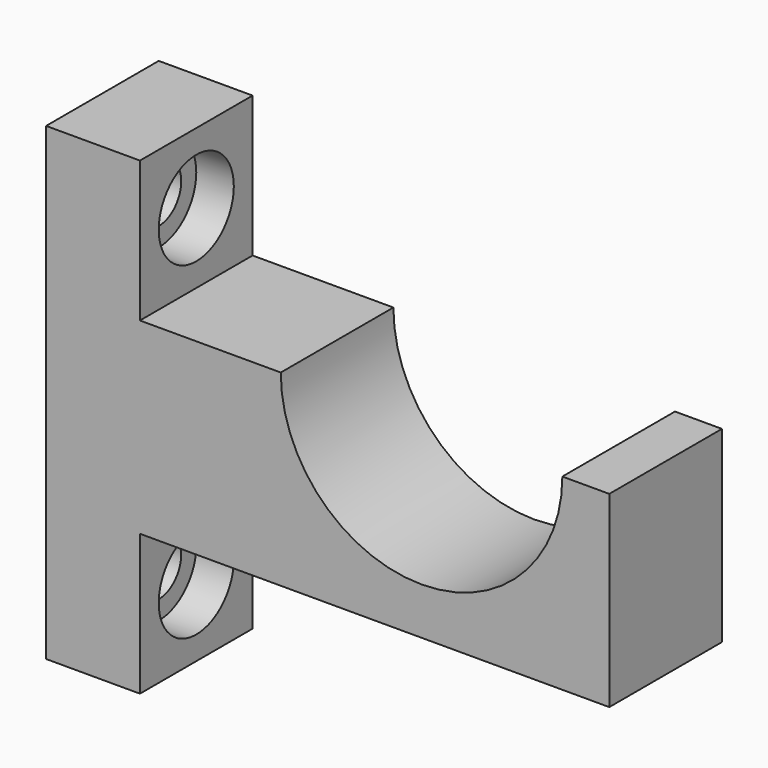
from build123d import *

# Parameters (mm, degrees)
F0_W     = 10
F0_H     = 15
F0_H_2   = 20
F1_DEPTH = 15
F2_R     = 3
F3_DEPTH = 10.001
F4_R     = 5
F4_R_2   = 3
F5_DEPTH = 4
F6_R     = 3
F7_DEPTH = 10.001
F8_R     = 5
F8_R_2   = 3
F9_DEPTH = 4


with BuildPart() as f1:
    # F0 (on Front) → F1 (new body)
    with BuildSketch(Plane.XZ):
        with Locations((-25, 17.5)):
            Rectangle(F0_W, F0_H)
        with Locations((-25, 0)):
            Rectangle(F0_W, F0_H_2)
        with BuildLine():
            Line((-20, -10), (30, -10))
            Line((30, -10), (30, 10))
            Line((30, 10), (25, 10))
            ThreePointArc((25, 10), (10, -5), (-5, 10))
            Line((-5, 10), (-20, 10))
            Line((-20, 10), (-20, -10))
        make_face()
        with Locations((-25, -17.5)):
            Rectangle(F0_W, F0_H)
    extrude(amount=F1_DEPTH)

    # F2 (on face) → F3 (cut, through all)
    with BuildSketch(Plane.YZ.offset(-20)):
        with Locations((-7.5, 17.5)):
            Circle(F2_R)
    extrude(amount=-F3_DEPTH, mode=Mode.SUBTRACT)

    # F4 (on face) → F5 (cut)
    with BuildSketch(Plane.YZ.offset(-20)):
        with Locations((-7.5, 17.5)):
            Circle(F4_R)
        with Locations((-7.5, 17.5)):
            Circle(F4_R_2, mode=Mode.SUBTRACT)
    extrude(amount=-F5_DEPTH, mode=Mode.SUBTRACT)

    # F6 (on face) → F7 (cut, through all)
    with BuildSketch(Plane.YZ.offset(-20)):
        with Locations((-7.5, -17.5)):
            Circle(F6_R)
    extrude(amount=-F7_DEPTH, mode=Mode.SUBTRACT)

    # F8 (on face) → F9 (cut)
    with BuildSketch(Plane.YZ.offset(-20)):
        with Locations((-7.5, -17.5)):
            Circle(F8_R)
        with Locations((-7.5, -17.5)):
            Circle(F8_R_2, mode=Mode.SUBTRACT)
    extrude(amount=-F9_DEPTH, mode=Mode.SUBTRACT)


solid = f1.part
